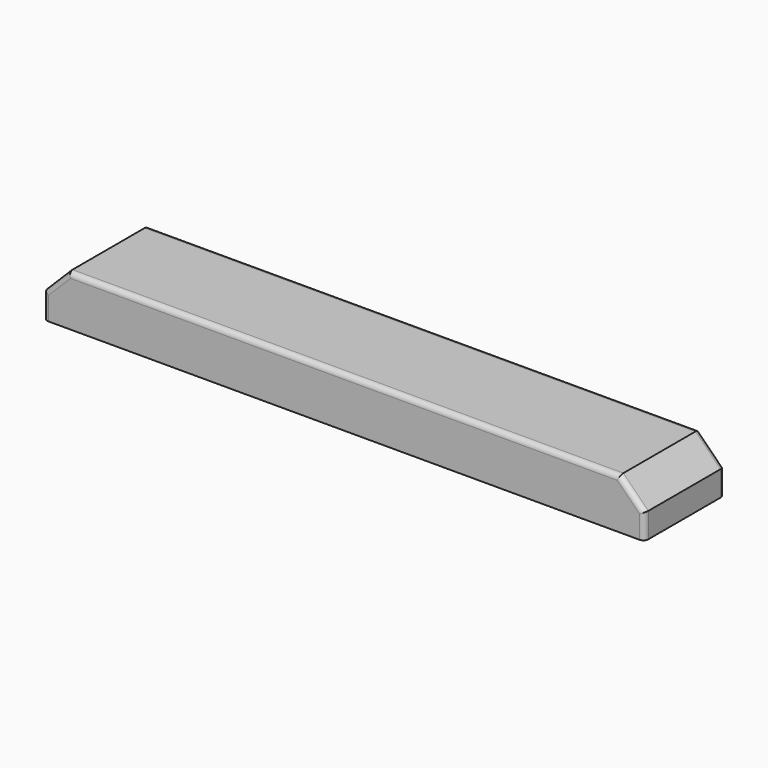
from build123d import *

# Parameters (mm, degrees)
F0_W     = 38.1
F0_H     = 19.05
F1_DEPTH = 228.6
F2_SIZE  = 9.525
F3_R     = 1.905


with BuildPart() as f1:
    # F0 (on Right) → F1 (new body)
    with BuildSketch(Plane.YZ):
        with Locations((19.05, 9.525)):
            Rectangle(F0_W, F0_H)
    extrude(amount=F1_DEPTH)

    # F2
    f2_edges = [f1.edges().sort_by_distance(p)[0] for p in [
        (0, 19.05, 19.05),
        (228.6, 19.05, 19.05),
    ]]
    chamfer(f2_edges, length=F2_SIZE)

    # F3
    f3_edges = [f1.edges().sort_by_distance(p)[0] for p in [
        (114.3, 0, 19.05),
        (4.7625, 0, 14.2875),
        (0, 0, 4.7625),
        (223.8375, 0, 14.2875),
        (228.6, 0, 4.7625),
        (114.3, 38.1, 19.05),
        (4.7625, 38.1, 14.2875),
        (0, 38.1, 4.7625),
        (223.8375, 38.1, 14.2875),
        (228.6, 38.1, 4.7625),
    ]]
    fillet(f3_edges, radius=F3_R)


solid = f1.part
